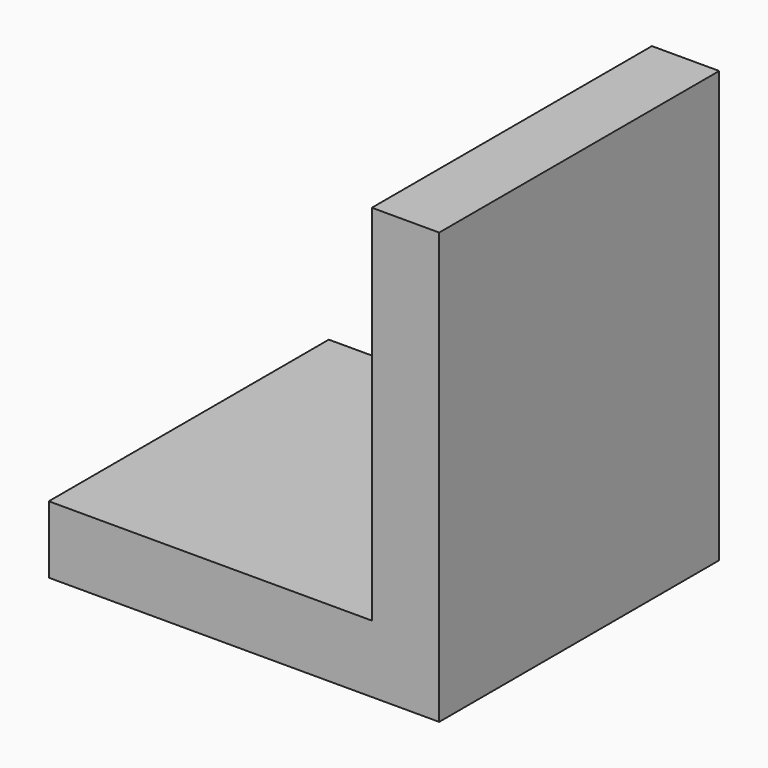
from build123d import *

# Parameters (mm, degrees)
F1_DEPTH = 165.1
F2_W     = 304.8
F2_H     = 63.5
F3_DEPTH = 330.2


with BuildPart() as f1:
    # F0 (on Front) → F1 (new body, symmetric)
    with BuildSketch(Plane.XZ):
        Polygon((0, 342.9), (0, 0), (0, -63.5), (63.5, -63.5), (63.5, 342.9), align=None)
    extrude(amount=F1_DEPTH, both=True)

    # F2 (on face) → F3 (join)
    with BuildSketch(Plane.XZ.offset(165.1)):
        with Locations((-152.4, -31.75)):
            Rectangle(F2_W, F2_H)
    extrude(amount=-F3_DEPTH)


solid = f1.part
